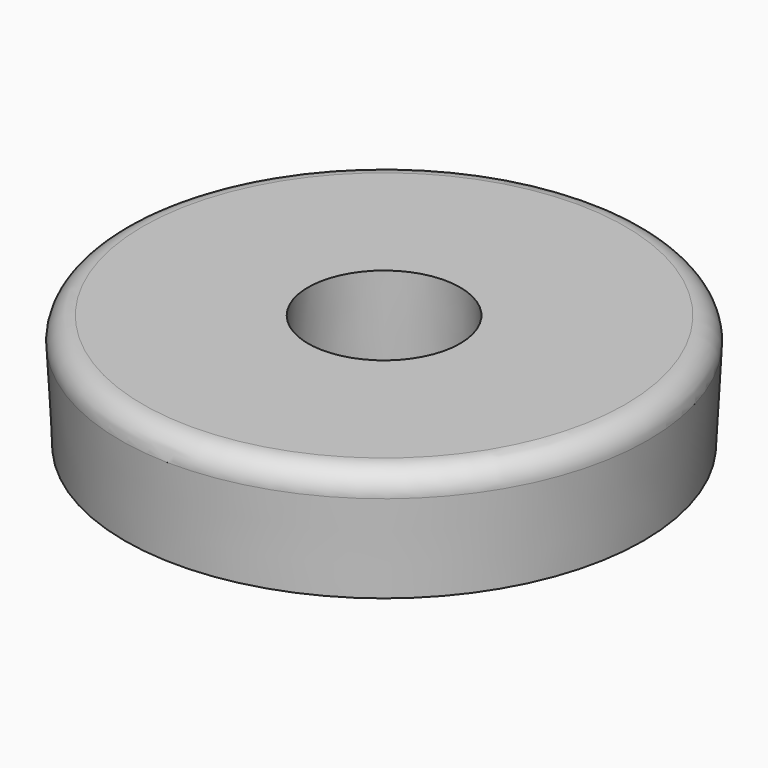
from build123d import *

# Parameters (mm, degrees)
F0_R     = 57.6802348058
F0_R_2   = 18.2549282731
F1_DEPTH = 25.4
F1_TAPER = -3
F2_R     = 5.08


with BuildPart() as f1:
    # F0 (on Top) → F1 (new body)
    with BuildSketch(Plane.XY):
        Circle(F0_R)
        Circle(F0_R_2, mode=Mode.SUBTRACT)
    extrude(amount=F1_DEPTH, taper=F1_TAPER)

    # F2
    f2_edges = [f1.edges().sort_by_distance(p)[0] for p in [
        (-59.011392, 0, 25.4),
    ]]
    fillet(f2_edges, radius=F2_R)


solid = f1.part
